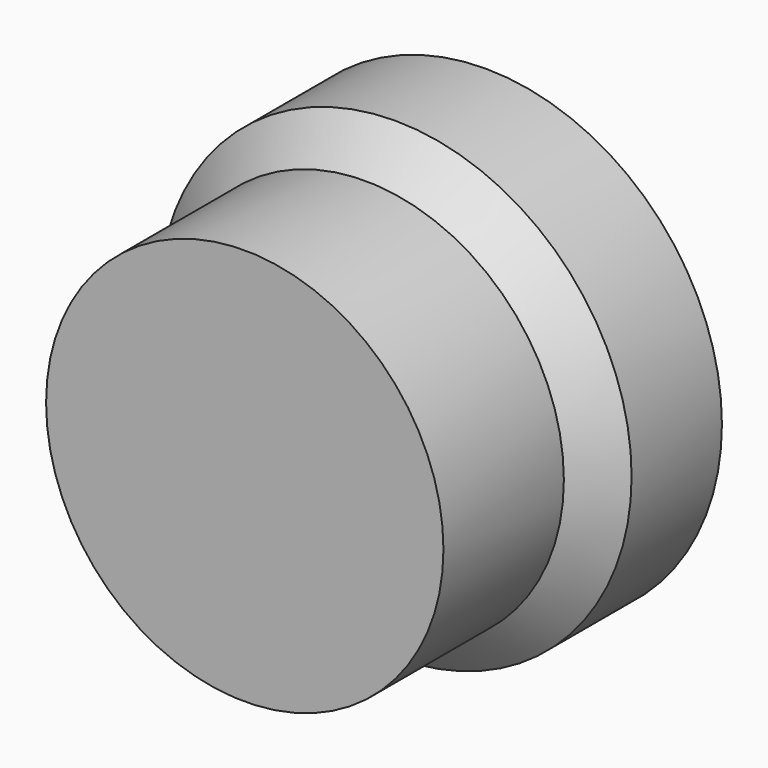
from build123d import *

# Parameters (mm, degrees)
F0_R      = 39.875513
F1_DEPTH  = 25.4
F2_SIZE   = 6.35
F1_FACE_R = 33.525513
F4_DEPTH  = 25.4


with BuildPart() as f1:
    # F0 (on Front) → F1 (new body)
    with BuildSketch(Plane.XZ):
        Circle(F0_R)
    extrude(amount=F1_DEPTH)

    # F2
    f2_edges = [f1.edges().sort_by_distance(p)[0] for p in [
        (-39.875513, -25.4, 0),
    ]]
    chamfer(f2_edges, length=F2_SIZE)

    # F1_face (on face) → F4 (join)
    with BuildSketch(Plane.XZ.offset(25.4)):
        Circle(F1_FACE_R)
    extrude(amount=F4_DEPTH)


solid = f1.part
